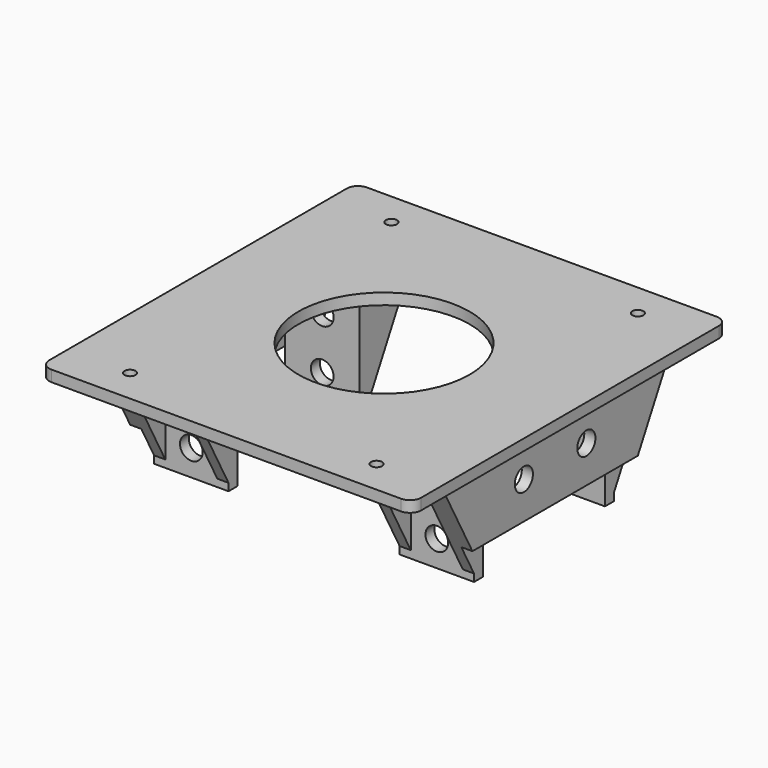
from build123d import *

# Parameters (mm, degrees)
F0_W           = 100
F0_H           = 106
F0_R           = 1.5
F0_R_2         = 23
F1_DEPTH       = 3
F2_R           = 3
F4_DEPTH       = 28
F5_DEPTH       = 20
F3_W           = 3
F3_H           = 15
F6_DEPTH       = 28
F7_DEPTH       = 15
F7_DEPTH_BACK  = 62
F9_DEPTH       = 20
F9_DEPTH_BACK  = 72
F11_DEPTH      = 20
F11_DEPTH_BACK = 72
F12_R          = 3.05
F13_R          = 3.05
F14_DEPTH      = 47
F15_R          = 3.05
F16_DEPTH      = 3
F16_DEPTH_BACK = 89
F17_DEPTH      = 2


with BuildPart() as f1:
    # F0 (on Top) → F1 (new body)
    with BuildSketch(Plane.XY):
        Rectangle(F0_W, F0_H)
        with Locations((-33.1323798252, -43.9004032683)):
            Circle(F0_R, mode=Mode.SUBTRACT)
        with Locations((33.1323798252, -43.9004032683)):
            Circle(F0_R, mode=Mode.SUBTRACT)
        with Locations((-33.1323798252, 43.9004032683)):
            Circle(F0_R, mode=Mode.SUBTRACT)
        Circle(F0_R_2, mode=Mode.SUBTRACT)
        with Locations((33.1323798252, 43.9004032683)):
            Circle(F0_R, mode=Mode.SUBTRACT)
    extrude(amount=F1_DEPTH)

    # F2
    f2_edges = [f1.edges().sort_by_distance(p)[0] for p in [
        (-50, -53, 1.5),
        (-50, 53, 1.5),
        (50, 53, 1.5),
        (50, -53, 1.5),
    ]]
    fillet(f2_edges, radius=F2_R)

    # F3 (on Top) → F4 (join)
    with BuildSketch(Plane.XY):
        Polygon((-23, -20.5), (-43, -20.5), (-43, -23.5), (-40, -23.5), (-26, -23.5), (-23, -23.5), align=None)
        Polygon((-43, 23.5), (-43, 20.5), (-23, 20.5), (-23, 23.5), (-26, 23.5), (-40, 23.5), align=None)
        Polygon((23, 20.5), (43, 20.5), (43, 23.5), (40, 23.5), (26, 23.5), (23, 23.5), align=None)
        Polygon((43, -23.5), (43, -20.5), (23, -20.5), (23, -23.5), (26, -23.5), (40, -23.5), align=None)
    extrude(amount=-F4_DEPTH)

    # F3 (on Top) → F5 (join)
    with BuildSketch(Plane.XY):
        Polygon((43, 20.5), (43, -20.5), (43, -23.5), (46, -23.5), (46, 23.5), (43, 23.5), align=None)
        Polygon((-43, -20.5), (-43, 20.5), (-43, 23.5), (-46, 23.5), (-46, -23.5), (-43, -23.5), align=None)
    extrude(amount=-F5_DEPTH)

    # F3 (on Top) → F6 (join)
    with BuildSketch(Plane.XY):
        with Locations((-41.5, 31)):
            Rectangle(F3_W, F3_H)
        with Locations((-24.5, 31)):
            Rectangle(F3_W, F3_H)
        with Locations((24.5, 31)):
            Rectangle(F3_W, F3_H)
        with Locations((41.5, 31)):
            Rectangle(F3_W, F3_H)
        with Locations((-41.5, -31)):
            Rectangle(F3_W, F3_H)
        with Locations((-24.5, -31)):
            Rectangle(F3_W, F3_H)
        with Locations((24.5, -31)):
            Rectangle(F3_W, F3_H)
        with Locations((41.5, -31)):
            Rectangle(F3_W, F3_H)
    extrude(amount=-F6_DEPTH)

    # F7 (add, two sides): faces of the model
    f7_faces = [f1.faces().sort_by_distance(p)[0] for p in [
        (-44.5, -23.5, -10),
        (44.5, -23.5, -10),
    ]]
    extrude(f7_faces, amount=F7_DEPTH)
    extrude(f7_faces, amount=-F7_DEPTH_BACK)

    # F8 (on face) → F9 (cut, two sides)
    with BuildSketch(Plane(origin=(-26, 0, 0), x_dir=(0, -1, 0), z_dir=(-1, 0, 0))) as f9_sk:
        Polygon((-23.5, -28), (-38.5, 0), (-38.5, -28), align=None)
    extrude(amount=F9_DEPTH, mode=Mode.SUBTRACT)
    extrude(f9_sk.sketch, amount=-F9_DEPTH_BACK, mode=Mode.SUBTRACT)

    # F10 (on face) → F11 (cut, two sides)
    with BuildSketch(Plane(origin=(-26, 0, 0), x_dir=(0, -1, 0), z_dir=(-1, 0, 0))) as f11_sk:
        Polygon((38.5, 0), (23.5, -28), (38.5, -28), align=None)
    extrude(amount=F11_DEPTH, mode=Mode.SUBTRACT)
    extrude(f11_sk.sketch, amount=-F11_DEPTH_BACK, mode=Mode.SUBTRACT)

    # F12 (on face) + F13 (on face) → F14 (cut, through all)
    with BuildSketch(Plane(origin=(0, 23.5, 0), x_dir=(-1, 0, 0), z_dir=(0, 1, 0))):
        with Locations((33, -23)):
            Circle(F12_R)
        with Locations((33, -9)):
            Circle(F12_R)
    with BuildSketch(Plane(origin=(0, 23.5, 0), x_dir=(-1, 0, 0), z_dir=(0, 1, 0))):
        with Locations((-33, -9)):
            Circle(F13_R)
        with Locations((-33, -23)):
            Circle(F13_R)
    extrude(amount=-F14_DEPTH, mode=Mode.SUBTRACT)

    # F15 (on face) → F16 (cut, two sides)
    with BuildSketch(Plane.YZ.offset(-43)) as f16_sk:
        with Locations((10.5, -10)):
            Circle(F15_R)
        with Locations((-10.5, -10)):
            Circle(F15_R)
    extrude(amount=-F16_DEPTH, mode=Mode.SUBTRACT)
    extrude(f16_sk.sketch, amount=F16_DEPTH_BACK, mode=Mode.SUBTRACT)

    # F17 (add): faces of the model
    f17_faces = [f1.faces().sort_by_distance(p)[0] for p in [
        (33, -22, -28),
        (-33, -22, -28),
        (-33, 22, -28),
        (33, 22, -28),
    ]]
    extrude(f17_faces, amount=F17_DEPTH)


solid = f1.part
